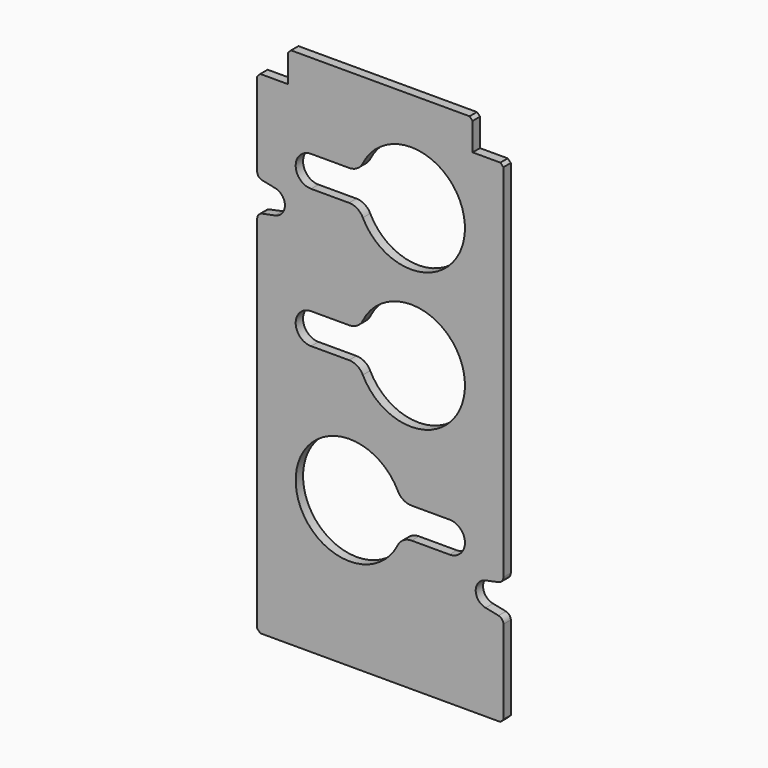
from build123d import *

# Parameters (mm, degrees)
SKETCH226_R     = 17.5
PAD114_DEPTH    = 3
POCKET054_DEPTH = 3.001
FILLET072_R     = 2
CHAMFER079_SIZE = 1
POCKET055_DEPTH = 5
FILLET073_R     = 5


with BuildPart() as part:
    # Sketch226 → Pad114 (new body)
    with BuildSketch(Plane.XZ):
        Polygon((40, 150), (-40, 150), (-40, 310), (-30, 310), (-30, 320), (30, 320), (30, 310), (40, 310), align=None)
        with Locations((10, 287.5)):
            Circle(SKETCH226_R, mode=Mode.SUBTRACT)
        with Locations((10, 242.5)):
            Circle(SKETCH226_R, mode=Mode.SUBTRACT)
        with Locations((-10, 197.5)):
            Circle(SKETCH226_R, mode=Mode.SUBTRACT)
    extrude(amount=-PAD114_DEPTH)

    # Sketch227 → Pocket054 (cut, through all)
    with BuildSketch(Plane.XZ):
        with BuildLine():
            ThreePointArc((-39, 279.898979), (-45, 275), (-39, 270.101021))
            Line((-39, 270.101021), (-34.2, 271.080816))
            ThreePointArc((-34.2, 271.080816), (-31, 275), (-34.2, 278.919184))
            Line((-34.2, 278.919184), (-39, 279.898979))
        make_face()
        with BuildLine():
            ThreePointArc((39, 180.101021), (45, 185), (39, 189.898979))
            Line((39, 189.898979), (34.2, 188.919184))
            ThreePointArc((34.2, 188.919184), (31, 185), (34.2, 181.080816))
            Line((34.2, 181.080816), (39, 180.101021))
        make_face()
    extrude(amount=-POCKET054_DEPTH, mode=Mode.SUBTRACT)

    # Fillet072
    fillet072_edges = [part.edges().sort_by_distance(p)[0] for p in [
        (40, 1.5, 180),
        (40, 1.5, 190),
        (-40, 1.5, 270),
        (-40, 1.5, 280),
    ]]
    fillet(fillet072_edges, radius=FILLET072_R)

    # Chamfer079
    chamfer079_edges = [part.edges().sort_by_distance(p)[0] for p in [
        (-30, 1.5, 320),
        (-40, 1.5, 310),
        (30, 1.5, 320),
        (40, 1.5, 310),
        (-40, 1.5, 150),
        (40, 1.5, 150),
    ]]
    chamfer(chamfer079_edges, length=CHAMFER079_SIZE)

    # Sketch228 → Pocket055 (cut)
    with BuildSketch(Plane.XZ):
        with BuildLine():
            ThreePointArc((10, 282.5), (15, 287.5), (10, 292.5))
            Line((10, 292.5), (-22.5, 292.5))
            ThreePointArc((-22.5, 292.5), (-27.5, 287.5), (-22.5, 282.5))
            Line((-22.5, 282.5), (10, 282.5))
        make_face()
        with BuildLine():
            ThreePointArc((10, 237.5), (15, 242.5), (10, 247.5))
            Line((10, 247.5), (-22.5, 247.5))
            ThreePointArc((-22.5, 247.5), (-27.5, 242.5), (-22.5, 237.5))
            Line((-22.5, 237.5), (10, 237.5))
        make_face()
        with BuildLine():
            ThreePointArc((-10, 202.5), (-15, 197.5), (-10, 192.5))
            Line((-10, 192.5), (22.5, 192.5))
            ThreePointArc((22.5, 192.5), (27.5, 197.5), (22.5, 202.5))
            Line((22.5, 202.5), (-10, 202.5))
        make_face()
    extrude(amount=-POCKET055_DEPTH, mode=Mode.SUBTRACT)

    # Fillet073
    fillet073_edges = [part.edges().sort_by_distance(p)[0] for p in [
        (-6.77051, 1.5, 292.5),
        (-6.77051, 1.5, 282.5),
        (-6.77051, 1.5, 237.5),
        (-6.77051, 1.5, 247.5),
        (6.77051, 1.5, 192.5),
        (6.77051, 1.5, 202.5),
    ]]
    fillet(fillet073_edges, radius=FILLET073_R)


with BuildPart() as part_1:
    # Body098 placement: moved
    add(part.part.moved(Location((0, 75, 0))))


solid = part_1.part
